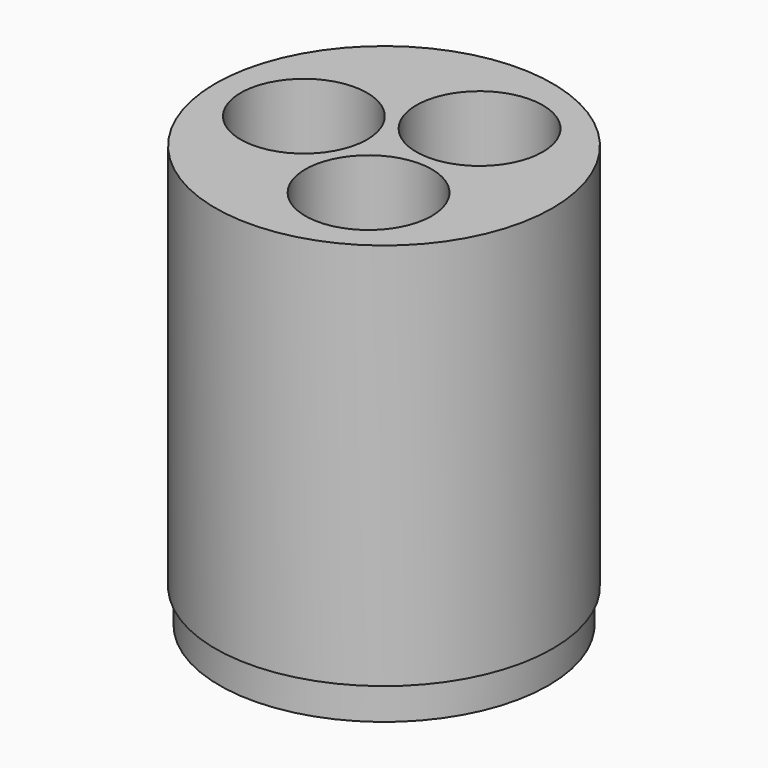
from build123d import *

# Parameters (mm, degrees)
F0_R     = 20
F1_DEPTH = 50
F2_R     = 7.5
F3_DEPTH = 50.001
F4_R     = 20
F4_R_2   = 19.5
F5_DEPTH = 4


with BuildPart() as f1:
    # F0 (on Top) → F1 (new body)
    with BuildSketch(Plane.XY):
        Circle(F0_R)
    extrude(amount=F1_DEPTH)

    # F2 (on face) → F3 (cut, through all)
    with BuildSketch(Plane(origin=(0, 0, 0), x_dir=(1, 0, 0), z_dir=(0, 0, -1))):
        with Locations((-9.5, 0)):
            Circle(F2_R)
        with Locations((4.75, -8.227241)):
            Circle(F2_R)
        with Locations((4.75, 8.227241)):
            Circle(F2_R)
    extrude(amount=-F3_DEPTH, mode=Mode.SUBTRACT)

    # F4 (on face) → F5 (cut)
    with BuildSketch(Plane(origin=(0, 0, 0), x_dir=(1, 0, 0), z_dir=(0, 0, -1))):
        Circle(F4_R)
        Circle(F4_R_2, mode=Mode.SUBTRACT)
    extrude(amount=-F5_DEPTH, mode=Mode.SUBTRACT)


solid = f1.part
